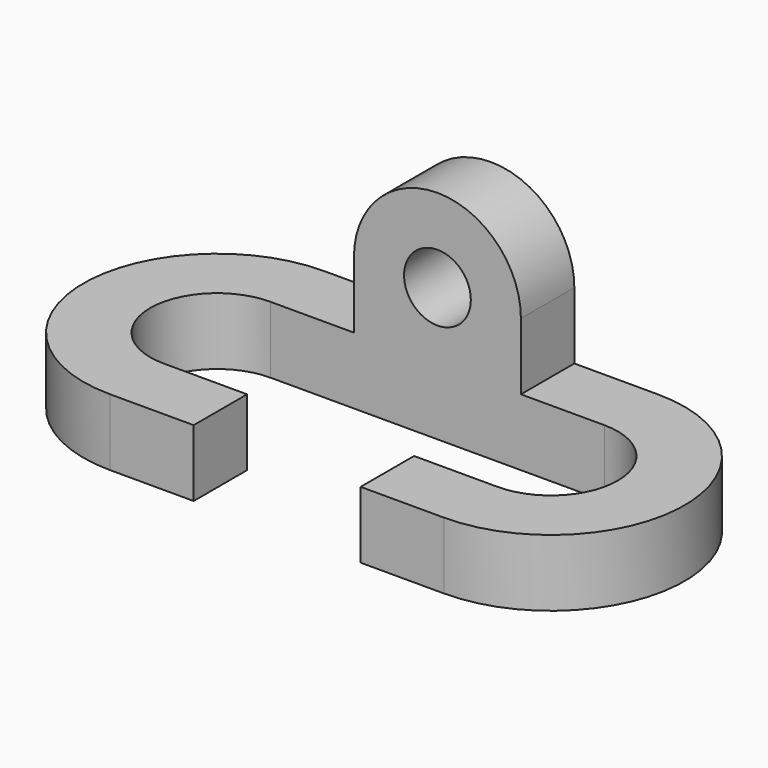
from build123d import *

# Parameters (mm, degrees)
F1_DEPTH = 12.7
F2_R     = 6.35
F3_DEPTH = 12.7


with BuildPart() as f1:
    # F0 (on Top) → F1 (new body)
    with BuildSketch(Plane.XY):
        with BuildLine():
            Line((15.14679, 6.35), (-48.35321, 6.35))
            ThreePointArc((-48.35321, 6.35), (-73.75321, -19.05), (-48.35321, -44.45))
            Line((-48.35321, -44.45), (-32.47821, -44.45))
            Line((-32.47821, -44.45), (-32.47821, -31.75))
            Line((-32.47821, -31.75), (-48.35321, -31.75))
            ThreePointArc((-48.35321, -31.75), (-61.05321, -19.05), (-48.35321, -6.35))
            Line((-48.35321, -6.35), (15.14679, -6.35))
            ThreePointArc((15.14679, -6.35), (27.84679, -19.05), (15.14679, -31.75))
            Line((15.14679, -31.75), (-0.72821, -31.75))
            Line((-0.72821, -31.75), (-0.72821, -44.45))
            Line((-0.72821, -44.45), (15.14679, -44.45))
            ThreePointArc((15.14679, -44.45), (40.54679, -19.05), (15.14679, 6.35))
        make_face()
    extrude(amount=F1_DEPTH)

    # F2 (on face) → F3 (join)
    with BuildSketch(Plane.XZ.offset(6.35)):
        with BuildLine():
            Line((-0.72821, 12.7), (-0.72821, 25.4))
            ThreePointArc((-0.72821, 25.4), (-16.60321, 41.275), (-32.47821, 25.4))
            Line((-32.47821, 25.4), (-32.47821, 12.7))
            Line((-32.47821, 12.7), (-0.72821, 12.7))
        make_face()
        with Locations((-16.60321, 25.4)):
            Circle(F2_R, mode=Mode.SUBTRACT)
    extrude(amount=-F3_DEPTH)


solid = f1.part
